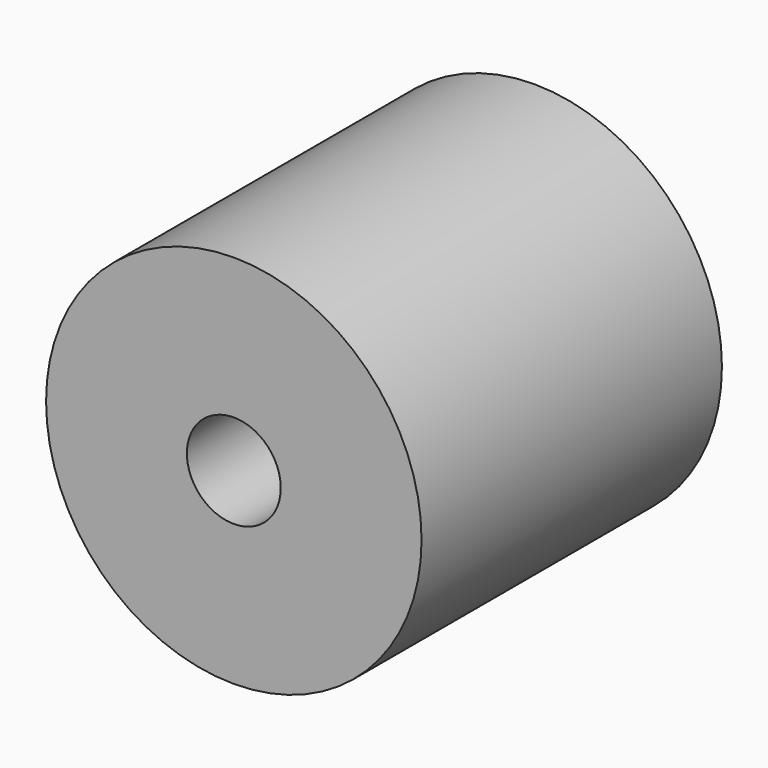
from build123d import *

# Parameters (mm, degrees)
SKETCH_R   = 12.7
SKETCH_R_2 = 3.175
PAD_DEPTH  = 25.4


with BuildPart() as part:
    # Sketch → Pad (new body)
    with BuildSketch(Plane.XZ):
        Circle(SKETCH_R)
        Circle(SKETCH_R_2, mode=Mode.SUBTRACT)
    extrude(amount=PAD_DEPTH)


solid = part.part
